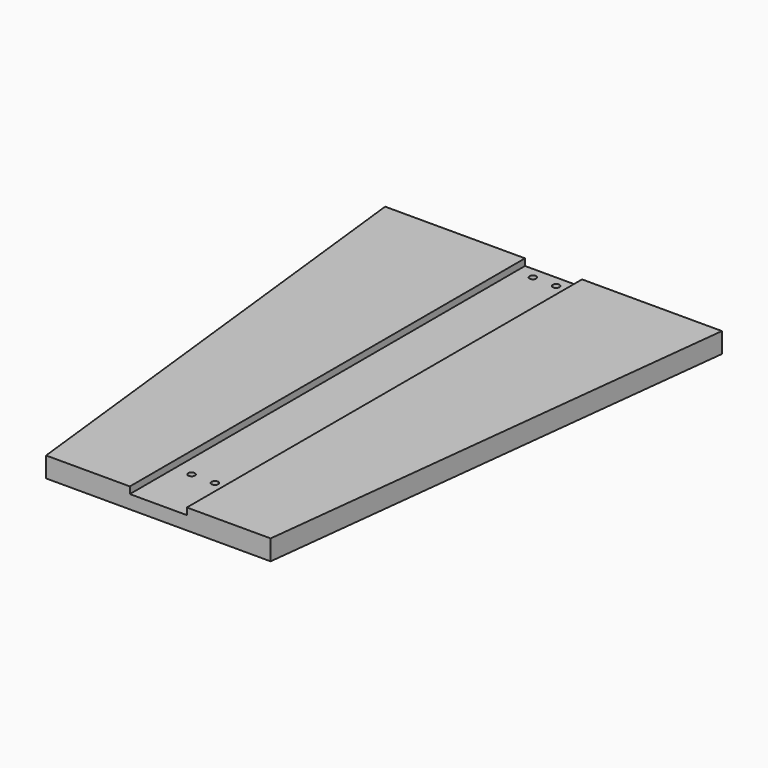
from build123d import *

# Parameters (mm, degrees)
F0_W     = 800
F0_H     = 440
F1_DEPTH = 9
F3_DEPTH = 40
F4_W     = 50.8
F4_H     = 440
F5_DEPTH = 6
F7_D     = 6


with BuildPart() as f1:
    # F0 (on Top) → F1 (new body, symmetric)
    with BuildSketch(Plane.XY):
        with Locations((0, 220)):
            Rectangle(F0_W, F0_H)
    extrude(amount=F1_DEPTH, both=True)

    # F2 (on face) → F3 (cut)
    with BuildSketch(Plane.XY.offset(9)):
        Polygon((-400, 0), (-100, 0), (-150, 440), (-400, 440), align=None)
        Polygon((150, 440), (100, 0), (400, 0), (400, 440), align=None)
    extrude(amount=-F3_DEPTH, mode=Mode.SUBTRACT)

    # F4 (on face) → F5 (cut)
    with BuildSketch(Plane.XY.offset(9)):
        with Locations((0, 220)):
            Rectangle(F4_W, F4_H)
    extrude(amount=-F5_DEPTH, mode=Mode.SUBTRACT)

    # F7 (through all)
    with Locations(Plane.XY.offset(3)):
        with Locations((-10.4, 430), (10.4, 430), (10.4, 50), (-10.4, 50)):
            Hole(F7_D / 2)


solid = f1.part
